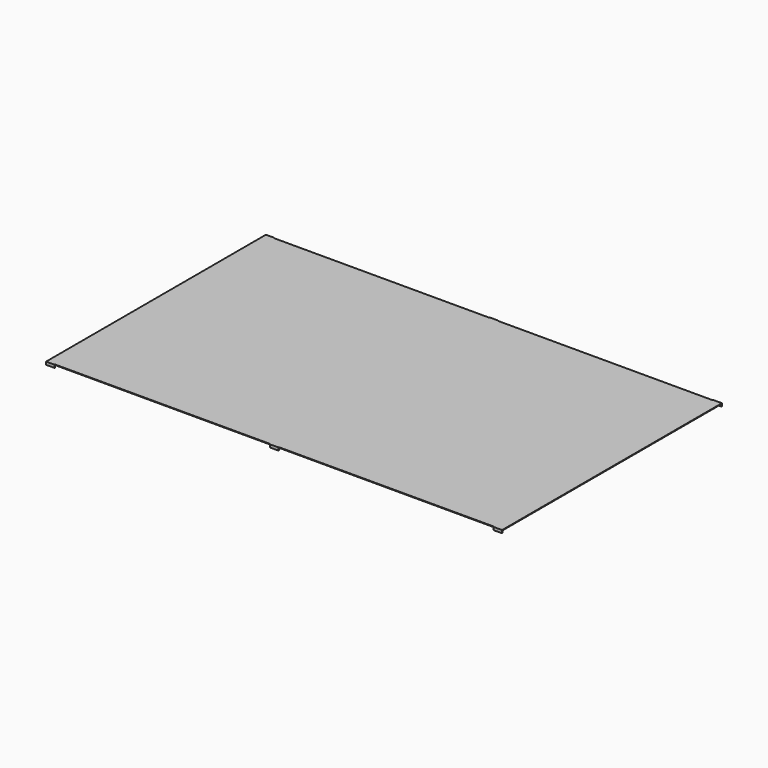
from build123d import *

# Parameters (mm, degrees)
F0_W     = 1600
F0_H     = 960
F1_DEPTH = 2
F2_W     = 30
F2_H     = 2
F3_DEPTH = 10


with BuildPart() as f1:
    # F0 (on Top) → F1 (new body)
    with BuildSketch(Plane.XY):
        Rectangle(F0_W, F0_H)
    extrude(amount=-F1_DEPTH)


with BuildPart() as f3:
    # F2 (on face) → F3 (new body)
    with BuildSketch(Plane.XY):
        with Locations((0, 481)):
            Rectangle(F2_W, F2_H)
        with Locations((785, 481)):
            Rectangle(F2_W, F2_H)
        with Locations((-785, 481)):
            Rectangle(F2_W, F2_H)
        with Locations((0, -481)):
            Rectangle(F2_W, F2_H)
        with Locations((785, -481)):
            Rectangle(F2_W, F2_H)
        with Locations((-785, -481)):
            Rectangle(F2_W, F2_H)
    extrude(amount=-F3_DEPTH)


solid = Compound([f1.part, f3.part])
